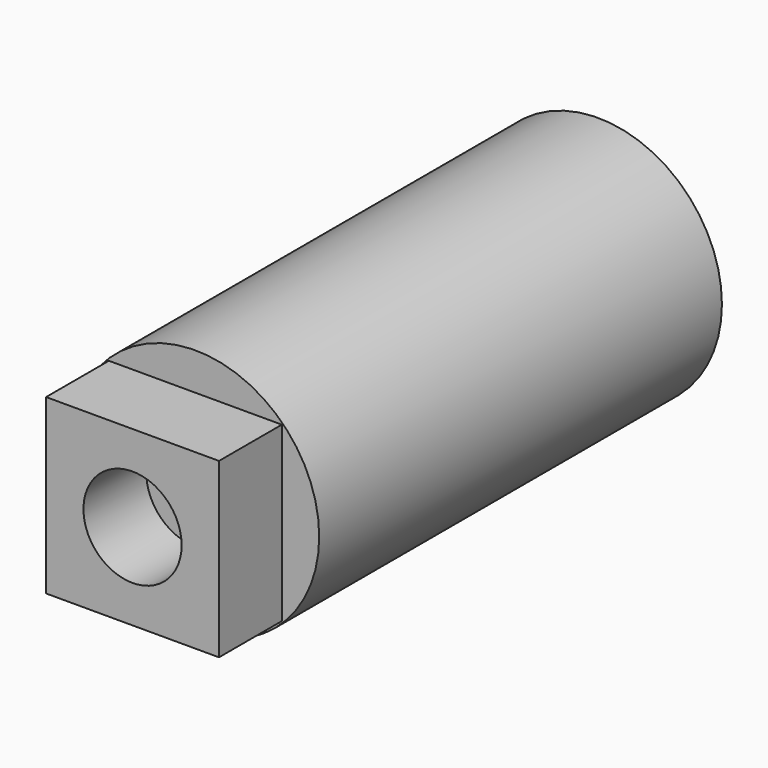
from build123d import *

# Parameters (mm, degrees)
F0_R     = 12.4968
F0_W     = 17.4498
F0_H     = 17.4498
F0_R_2   = 4.953
F1_DEPTH = 50.8
F2_DEPTH = 7.9248


with BuildPart() as f1:
    # F0 (on Front) → F1 (new body)
    with BuildSketch(Plane.XZ):
        Circle(F0_R)
        Rectangle(F0_W, F0_H, mode=Mode.SUBTRACT)
        Rectangle(F0_W, F0_H)
        Circle(F0_R_2, mode=Mode.SUBTRACT)
        Circle(F0_R_2)
    extrude(amount=-F1_DEPTH)

    # F0 (on Front) → F2 (join)
    with BuildSketch(Plane.XZ):
        Rectangle(F0_W, F0_H)
        Circle(F0_R_2, mode=Mode.SUBTRACT)
    extrude(amount=F2_DEPTH)


solid = f1.part
